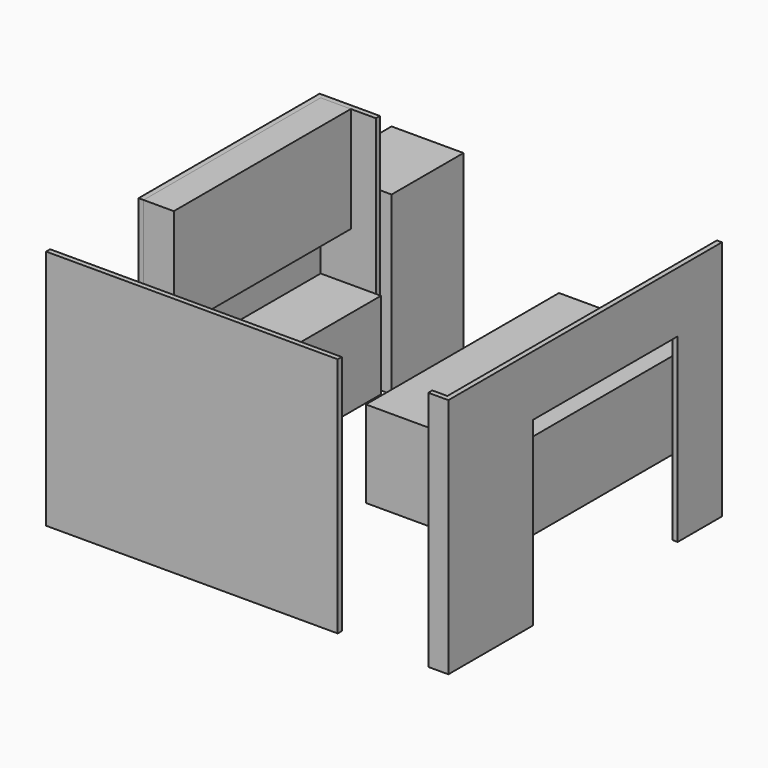
from build123d import *

# Parameters (mm, degrees)
F0_W      = 4064
F0_H      = 3454.4
F0_W_2    = 3962.4
F0_H_2    = 3352.8
F1_DEPTH  = 2438.4
F3_DEPTH  = 50.8
F4_W      = 1066.8
F4_H      = 2438.4
F5_DEPTH  = 50.8
F6_W      = 914.4
F6_H      = 2438.4
F7_DEPTH  = 50.8
F8_W      = 1828.8
F8_H      = 1828.8
F9_DEPTH  = 50.8
F11_W     = 609.6
F11_H     = 2235.2
F12_DEPTH = 876.3
F10_W     = 2235.2
F10_H     = 1066.8
F13_DEPTH = 304.8
F14_W     = 2336.8
F14_H     = 2438.4
F15_DEPTH = 50.8
F16_W     = 1371.6
F16_H     = 2438.4
F17_DEPTH = 876.3
F18_W     = 727.075
F18_H     = 1778
F19_DEPTH = 908.05


with BuildPart() as f1:
    # F0 (on Top) → F1 (new body)
    with BuildSketch(Plane.XY):
        Rectangle(F0_W, F0_H)
        Rectangle(F0_W_2, F0_H_2, mode=Mode.SUBTRACT)
    extrude(amount=F1_DEPTH)

    # F2 (on face) → F3 (cut)
    with BuildSketch(Plane(origin=(-2032, 0, 0), x_dir=(0, -1, 0), z_dir=(-1, 0, 0))):
        Polygon((558.8, 0), (1676.4, 0), (1676.4, 2438.4), (1625.6, 2438.4), (558.8, 2438.4), align=None)
    extrude(amount=-F3_DEPTH, mode=Mode.SUBTRACT)

    # F4 (on face) → F5 (cut)
    with BuildSketch(Plane(origin=(0, 1727.2, 0), x_dir=(-1, 0, 0), z_dir=(0, 1, 0))):
        with Locations((-1447.8, 1219.2)):
            Rectangle(F4_W, F4_H)
    extrude(amount=-F5_DEPTH, mode=Mode.SUBTRACT)

    # F6 (on face) → F7 (cut)
    with BuildSketch(Plane(origin=(0, -1676.4, 0), x_dir=(-1, 0, 0), z_dir=(0, 1, 0))):
        with Locations((-1371.6, 1219.2)):
            Rectangle(F6_W, F6_H)
    extrude(amount=-F7_DEPTH, mode=Mode.SUBTRACT)

    # F8 (on face) → F9 (cut)
    with BuildSketch(Plane.YZ.offset(2032)):
        with Locations((254, 914.4)):
            Rectangle(F8_W, F8_H)
    extrude(amount=-F9_DEPTH, mode=Mode.SUBTRACT)

    # F14 (on face) → F15 (cut)
    with BuildSketch(Plane.XZ.offset(-1676.4)):
        with Locations((-254, 1219.2)):
            Rectangle(F14_W, F14_H)
    extrude(amount=-F15_DEPTH, mode=Mode.SUBTRACT)


with BuildPart() as f12:
    # F11 (on face) → F12 (new body)
    with BuildSketch(Plane(origin=(0, 0, 0), x_dir=(1, 0, 0), z_dir=(0, 0, -1))):
        with Locations((-1676.4, -558.8)):
            Rectangle(F11_W, F11_H)
    extrude(amount=-F12_DEPTH)


with BuildPart() as f13:
    # F10 (on face) → F13 (new body)
    with BuildSketch(Plane.YZ.offset(-1981.2)):
        with Locations((558.8, 1905)):
            Rectangle(F10_W, F10_H)
    extrude(amount=F13_DEPTH)


with BuildPart() as f17:
    # F16 (on Top) → F17 (new body)
    with BuildSketch(Plane.XY):
        with Locations((381, 1371.6)):
            Rectangle(F16_W, F16_H)
    extrude(amount=F17_DEPTH)


with BuildPart() as f19:
    # F18 (on face) → F19 (new body)
    with BuildSketch(Plane(origin=(0, 1727.2, 0), x_dir=(-1, 0, 0), z_dir=(0, 1, 0))):
        with Locations((1668.4625, 889)):
            Rectangle(F18_W, F18_H)
    extrude(amount=F19_DEPTH)


solid = Compound([f1.part, f12.part, f13.part, f17.part, f19.part])
